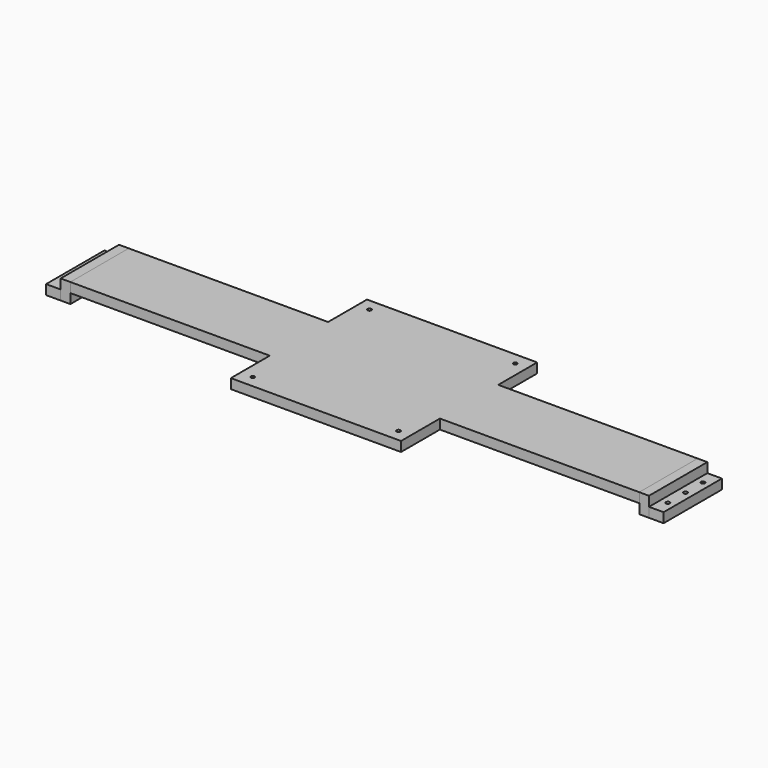
from build123d import *

# Parameters (mm, degrees)
F0_W     = 30
F0_H     = 150
F0_R     = 4
F1_DEPTH = 20
F0_W_2   = 20
F2_DEPTH = 40
F3_START = 20
F0_W_3   = 410
F0_W_4   = 350
F0_H_2   = 100
F3_DEPTH = 20


with BuildPart() as f1:
    # F0 (on Top) → F1 (new body)
    with BuildSketch(Plane.XY):
        with Locations((-620, 0)):
            Rectangle(F0_W, F0_H)
        with Locations((-620, -45)):
            Circle(F0_R, mode=Mode.SUBTRACT)
        with Locations((-620, 0)):
            Circle(F0_R, mode=Mode.SUBTRACT)
        with Locations((-620, 45)):
            Circle(F0_R, mode=Mode.SUBTRACT)
    extrude(amount=F1_DEPTH)


with BuildPart() as f1b:
    # F0 (on Top) → F1, piece 2 (new body)
    with BuildSketch(Plane.XY):
        with Locations((620, 0)):
            Rectangle(F0_W, F0_H)
        with Locations((620, -45)):
            Circle(F0_R, mode=Mode.SUBTRACT)
        with Locations((620, 0)):
            Circle(F0_R, mode=Mode.SUBTRACT)
        with Locations((620, 45)):
            Circle(F0_R, mode=Mode.SUBTRACT)
    extrude(amount=F1_DEPTH)


with BuildPart() as f2:
    # F0 (on Top) → F2 (new body)
    with BuildSketch(Plane.XY):
        with Locations((-595, 0)):
            Rectangle(F0_W_2, F0_H)
    extrude(amount=F2_DEPTH)


with BuildPart() as f2b:
    # F0 (on Top) → F2, piece 2 (new body)
    with BuildSketch(Plane.XY):
        with Locations((595, 0)):
            Rectangle(F0_W_2, F0_H)
    extrude(amount=F2_DEPTH)


with BuildPart() as f3:
    # F0 (on Top) → F3 (new body)
    with BuildSketch(Plane.XY.offset(F3_START)):
        with Locations((-380, 0)):
            Rectangle(F0_W_3, F0_H)
        Rectangle(F0_W_4, F0_H)
        with Locations((0, 125)):
            Rectangle(F0_W_4, F0_H_2)
        with Locations((-150, 150)):
            Circle(F0_R, mode=Mode.SUBTRACT)
        with Locations((150, 150)):
            Circle(F0_R, mode=Mode.SUBTRACT)
        with Locations((0, -125)):
            Rectangle(F0_W_4, F0_H_2)
        with Locations((-150, -150)):
            Circle(F0_R, mode=Mode.SUBTRACT)
        with Locations((150, -150)):
            Circle(F0_R, mode=Mode.SUBTRACT)
        with Locations((380, 0)):
            Rectangle(F0_W_3, F0_H)
    extrude(amount=F3_DEPTH)


solid = Compound([f1.part, f1b.part, f2.part, f2b.part, f3.part])
